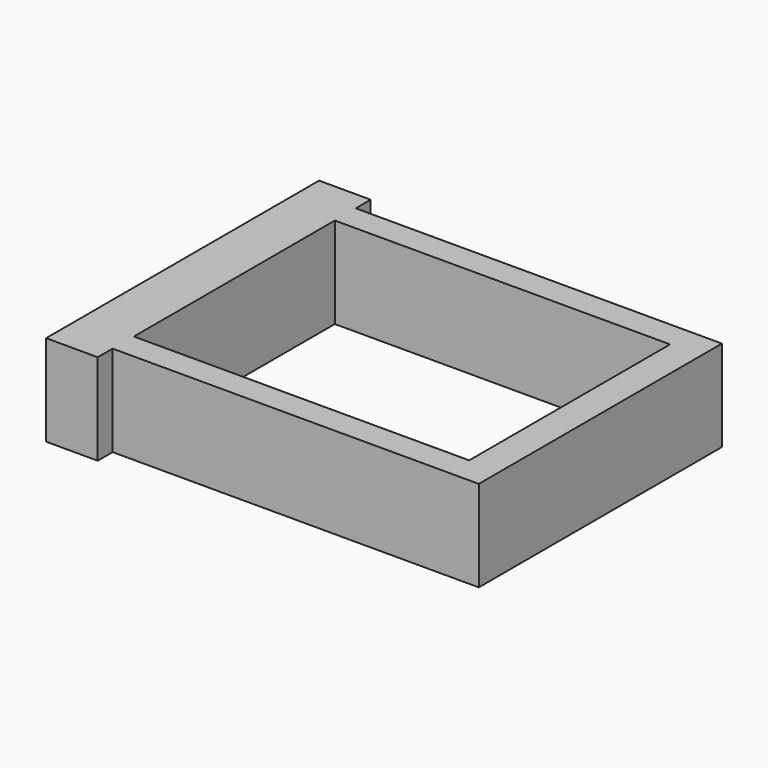
from build123d import *

# Parameters (mm, degrees)
F0_W     = 20.933425
F0_H     = 15.67955
F1_DEPTH = 5.6896


with BuildPart() as f1:
    # F0 (on Top) → F1 (new body)
    with BuildSketch(Plane.XY):
        Polygon((-11.43, -9.4869), (11.43, -9.4869), (11.43, 9.4869), (-11.43, 9.4869), (-11.43, 10.651205), (-14.655069, 10.651205), (-14.655069, 9.4869), (-14.655069, -9.462444), (-14.655069, -9.4869), (-14.655069, -10.651205), (-11.43, -10.651205), align=None)
        with Locations((-0.954376, 0)):
            Rectangle(F0_W, F0_H, mode=Mode.SUBTRACT)
    extrude(amount=F1_DEPTH)


solid = f1.part
